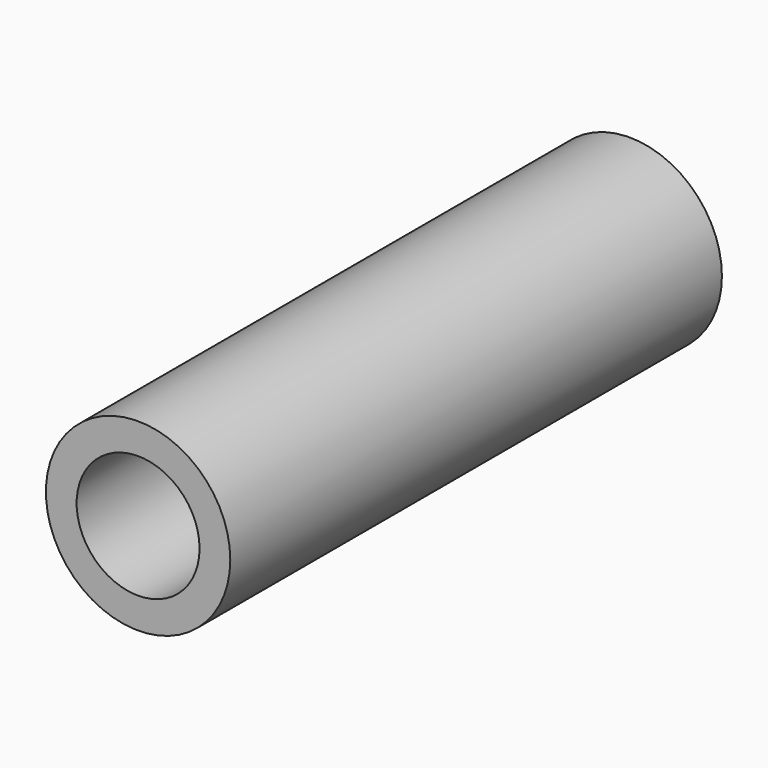
from build123d import *

# Parameters (mm, degrees)
F0_R     = 19.05
F0_R_2   = 12.7
F1_DEPTH = 63.5


with BuildPart() as f1:
    # F0 (on Front) → F1 (new body, symmetric)
    with BuildSketch(Plane.XZ):
        Circle(F0_R)
        Circle(F0_R_2, mode=Mode.SUBTRACT)
        Circle(F0_R)
        Circle(F0_R_2, mode=Mode.SUBTRACT)
    extrude(amount=F1_DEPTH, both=True)


solid = f1.part
